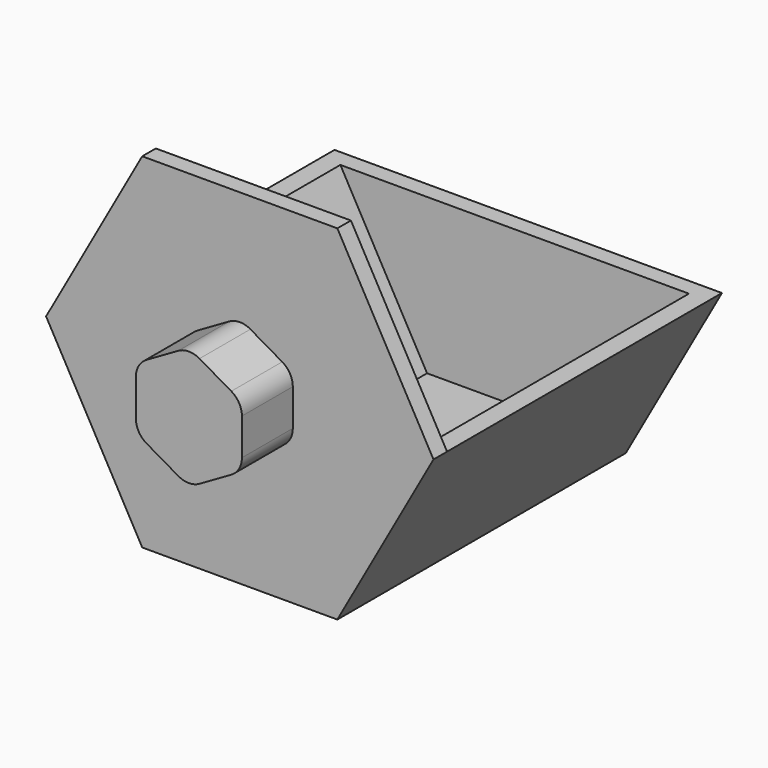
from build123d import *

# Parameters (mm, degrees)
F1_DEPTH = 4
F3_DEPTH = 15
F4_R     = 5
F6_DEPTH = 85
F8_DEPTH = 4


with BuildPart() as f1:
    # F0 (on Front) → F1 (new body)
    with BuildSketch(Plane.XZ):
        Polygon((-22.6691420217, 40.6), (0, 0), (23, 0), (46, 0), (68.6691420217, 40.6), (46, 81.2), (0, 81.2), align=None)
    extrude(amount=F1_DEPTH)

    # F2 (on face) → F3 (join)
    with BuildSketch(Plane.XZ.offset(4)):
        with BuildLine():
            ThreePointArc((29.2500001164, 29.7746825199), (33.8253175809, 34.3500000582), (35.5, 40.6))
            ThreePointArc((35.5, 40.6), (33.8253175809, 46.8499999418), (29.2500001164, 51.4253174801))
            ThreePointArc((29.2500001164, 51.4253174801), (23, 53.1), (16.7499998836, 51.4253174801))
            ThreePointArc((16.7499998836, 51.4253174801), (12.1746824191, 46.8499999418), (10.5, 40.6))
            ThreePointArc((10.5, 40.6), (12.1746825605, 34.3499998133), (16.7500003734, 29.7746822371))
            ThreePointArc((16.7500003734, 29.7746822371), (23.0000002828, 28.1), (29.2500001164, 29.7746825199))
        make_face()
        with BuildLine():
            Line((35.5, 33.3831216351), (35.5, 40.6))
            ThreePointArc((35.5, 40.6), (33.8253175809, 34.3500000582), (29.2500001164, 29.7746825199))
            Line((29.2500001164, 29.7746825199), (35.5, 33.3831216351))
        make_face()
        with BuildLine():
            ThreePointArc((29.2500001164, 51.4253174801), (33.8253175809, 46.8499999418), (35.5, 40.6))
            Line((35.5, 40.6), (35.5, 47.8168783649))
            Line((35.5, 47.8168783649), (29.2500001164, 51.4253174801))
        make_face()
        with BuildLine():
            ThreePointArc((16.7499998836, 51.4253174801), (23, 53.1), (29.2500001164, 51.4253174801))
            Line((29.2500001164, 51.4253174801), (23, 55.0337567297))
            Line((23, 55.0337567297), (16.7499998836, 51.4253174801))
        make_face()
        with BuildLine():
            Line((23, 26.1662432703), (29.2500001164, 29.7746825199))
            ThreePointArc((29.2500001164, 29.7746825199), (23.0000002828, 28.1), (16.7500003734, 29.7746822371))
            Line((16.7500003734, 29.7746822371), (23, 26.1662432703))
        make_face()
        with BuildLine():
            ThreePointArc((10.5, 40.6), (12.1746824191, 46.8499999418), (16.7499998836, 51.4253174801))
            Line((16.7499998836, 51.4253174801), (10.5, 47.8168783649))
            Line((10.5, 47.8168783649), (10.5, 40.6))
        make_face()
        with BuildLine():
            Line((10.5, 33.3831216351), (16.7500003734, 29.7746822371))
            ThreePointArc((16.7500003734, 29.7746822371), (12.1746825605, 34.3499998133), (10.5, 40.6))
            Line((10.5, 40.6), (10.5, 33.3831216351))
        make_face()
    extrude(amount=F3_DEPTH)

    # F4
    f4_edges = [f1.edges().sort_by_distance(p)[0] for p in [
        (35.5, -11.5, 47.816878),
        (23, -11.5, 55.033757),
        (10.5, -11.5, 47.816878),
        (35.5, -11.5, 33.383122),
        (23, -11.5, 26.166243),
        (10.5, -11.5, 33.383122),
    ]]
    fillet(f4_edges, radius=F4_R)

    # F5 (on face) → F6 (join)
    with BuildSketch(Plane.XZ.offset(4)):
        Polygon((64.0878597141, 40.6), (43.6521314402, 4.0000013266), (2.3478685598, 4.0000013266), (-18.0878597141, 40.6), (-22.6691420217, 40.6), (0, 0), (46, 0), (68.6691420217, 40.6), align=None)
    extrude(amount=-F6_DEPTH)

    # F7 (on face) → F8 (join)
    with BuildSketch(Plane(origin=(0, 81, 0), x_dir=(-1, 0, 0), z_dir=(0, 1, 0))):
        Polygon((22.6691420217, 40.6), (-68.6691420217, 40.6), (-46, 0), (0, 0), align=None)
    extrude(amount=-F8_DEPTH)


solid = f1.part
